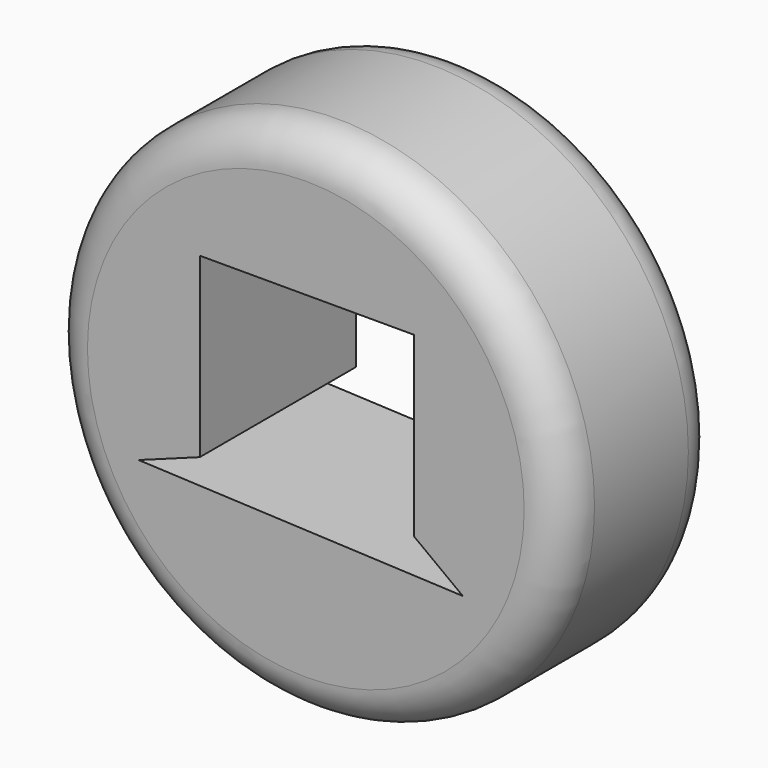
from build123d import *

# Parameters (mm, degrees)
F0_R     = 33.455584
F1_DEPTH = 25.4
F2_R     = 5.08
F3_R     = 5.08
F4_W     = 27.818047
F4_H     = 23.049239
F5_DEPTH = 25.401
F7_DEPTH = 25.401


with BuildPart() as f1:
    # F0 (on Front) → F1 (new body)
    with BuildSketch(Plane.XZ):
        Circle(F0_R)
    extrude(amount=F1_DEPTH)

    # F2
    f2_edges = [f1.edges().sort_by_distance(p)[0] for p in [
        (-33.455584, -25.4, 0),
    ]]
    fillet(f2_edges, radius=F2_R)

    # F3
    f3_edges = [f1.edges().sort_by_distance(p)[0] for p in [
        (-33.455584, 0, 0),
    ]]
    fillet(f3_edges, radius=F3_R)

    # F4 (on face) → F5 (cut, through all)
    with BuildSketch(Plane.XZ.offset(25.4)):
        with Locations((0.132467, 3.83878)):
            Rectangle(F4_W, F4_H)
    extrude(amount=-F5_DEPTH, mode=Mode.SUBTRACT)

    # F6 (on face) → F7 (cut, through all)
    with BuildSketch(Plane.XZ.offset(25.4)):
        Polygon((-13.776556, -7.685839), (-21.724571, -10.60011), (20.3999, -12.454647), (14.041491, -7.685839), align=None)
    extrude(amount=-F7_DEPTH, mode=Mode.SUBTRACT)


solid = f1.part
